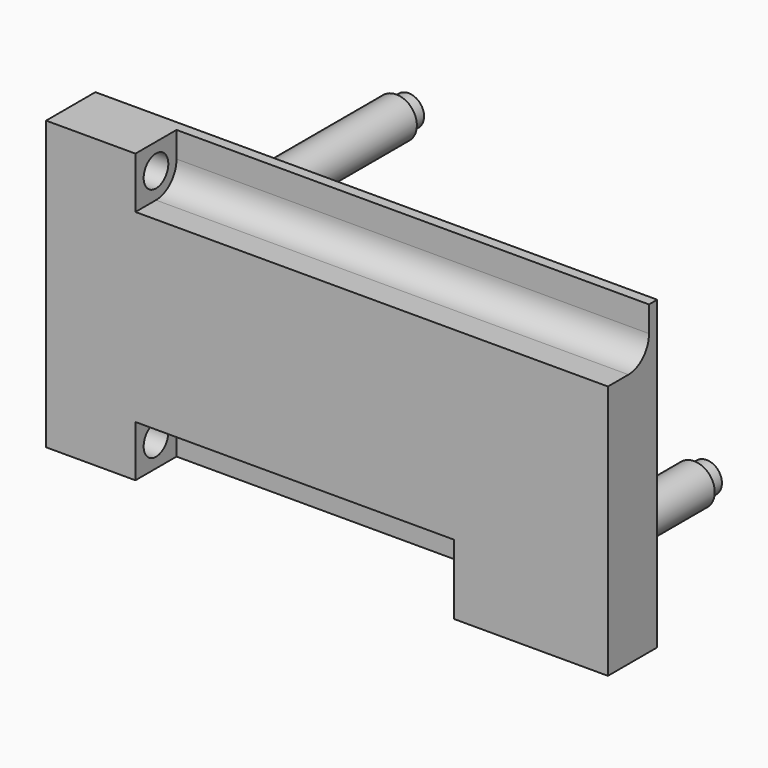
from build123d import *

# Parameters (mm, degrees)
F0_W      = 40
F0_H      = 28
F1_DEPTH  = 6
F3_DEPTH  = 38
F4_R      = 1.5
F5_DEPTH  = 2
F7_R      = 2.225
F7_R_2    = 1.225
F8_DEPTH  = 3
F9_R      = 2
F10_DEPTH = 17
F11_R     = 1.5
F12_DEPTH = 1.5
F13_DEPTH = 6.7
F15_DEPTH = 8
F16_R     = 3
F17_DEPTH = 4.5
F19_DEPTH = 15
F20_R     = 1.3333333333


with BuildPart() as f1:
    # F0 (on Front) → F1 (new body)
    with BuildSketch(Plane.XZ):
        with Locations((20, -14)):
            Rectangle(F0_W, F0_H)
    extrude(amount=F1_DEPTH)

    # F2 (on face) → F3 (cut, through all)
    with BuildSketch(Plane.YZ.offset(40)):
        with BuildLine():
            Line((-6, -23), (-6, -28))
            Line((-6, -28), (-1, -28))
            Line((-1, -28), (-1, -25.5))
            ThreePointArc((-1, -25.5), (-1.732233047, -23.732233047), (-3.5, -23))
            Line((-3.5, -23), (-6, -23))
        make_face()
        with BuildLine():
            Line((-6, 0), (-6, -5))
            Line((-6, -5), (-3.5, -5))
            ThreePointArc((-3.5, -5), (-1.732233047, -4.267766953), (-1, -2.5))
            Line((-1, -2.5), (-1, 0))
            Line((-1, 0), (-6, 0))
        make_face()
    extrude(amount=-F3_DEPTH, mode=Mode.SUBTRACT)

    # F4 (on face) → F5 (cut)
    with BuildSketch(Plane(origin=(0, 0, 0), x_dir=(0, -1, 0), z_dir=(-1, 0, 0))):
        with Locations((3.5, -25.5)):
            Circle(F4_R)
        with BuildLine():
            ThreePointArc((0, -22.94427191), (4, -14), (0, -5.05572809))
            Line((0, -5.05572809), (0, -22.94427191))
        make_face()
        with Locations((3.5, -2.5)):
            Circle(F4_R)
    extrude(amount=-F5_DEPTH, mode=Mode.SUBTRACT)

    # F7 (on face) → F8 (join)
    with BuildSketch(Plane(origin=(0, 0, 0), x_dir=(-1, 0, 0), z_dir=(0, 1, 0))):
        with Locations((-20.5, -24)):
            Circle(F7_R)
        with Locations((-20.5, -24)):
            Circle(F7_R_2, mode=Mode.SUBTRACT)
        with Locations((-30.4902837155, -23.5592832158)):
            Circle(F7_R)
        with Locations((-30.4902837155, -23.5592832158)):
            Circle(F7_R_2, mode=Mode.SUBTRACT)
    extrude(amount=F8_DEPTH)

    # F9 (on face) → F10 (join)
    with BuildSketch(Plane(origin=(0, 0, 0), x_dir=(-1, 0, 0), z_dir=(0, 1, 0))):
        with Locations((-38, -26)):
            Circle(F9_R)
        with Locations((-9, -24)):
            Circle(F9_R)
        with Locations((-9, -4)):
            Circle(F9_R)
    extrude(amount=F10_DEPTH)

    # F11 (on face) → F12 (join)
    with BuildSketch(Plane(origin=(0, 17, 0), x_dir=(-1, 0, 0), z_dir=(0, 1, 0))):
        with Locations((-38, -26)):
            Circle(F11_R)
        with Locations((-9, -24)):
            Circle(F11_R)
        with Locations((-9, -4)):
            Circle(F11_R)
    extrude(amount=F12_DEPTH)

    # F13 (add): a face of the model
    f13_faces = [f1.faces().sort_by_distance(p)[0] for p in [
        (0, -0.2863564213, -2.527864045),
    ]]
    extrude(f13_faces, amount=F13_DEPTH)

    # F14 (on face) → F15 (join)
    with BuildSketch(Plane.YZ.offset(40)):
        with BuildLine():
            Line((0, 0), (-1, 0))
            Line((-1, 0), (-1, -2.5))
            ThreePointArc((-1, -2.5), (-1.732233047, -4.267766953), (-3.5, -5))
            Line((-3.5, -5), (-6, -5))
            Line((-6, -5), (-6, -23))
            Line((-6, -23), (-3.5, -23))
            ThreePointArc((-3.5, -23), (-1.732233047, -23.732233047), (-1, -25.5))
            Line((-1, -25.5), (-1, -28))
            Line((-1, -28), (0, -28))
            Line((0, -28), (0, 0))
        make_face()
    extrude(amount=F15_DEPTH)

    # F16 (on face) → F17 (cut)
    with BuildSketch(Plane(origin=(0, 0, 0), x_dir=(-1, 0, 0), z_dir=(0, 1, 0))):
        with Locations((-38, -10)):
            Circle(F16_R)
    extrude(amount=-F17_DEPTH, mode=Mode.SUBTRACT)

    # F18 (on face) → F19 (join)
    with BuildSketch(Plane.YZ.offset(48)):
        with BuildLine():
            Line((-3.5, -23), (-6, -23))
            Line((-6, -23), (-6, -29.8))
            Line((-6, -29.8), (0, -29.8))
            Line((0, -29.8), (0, -28))
            Line((0, -28), (-1, -28))
            Line((-1, -28), (-1, -25.5))
            ThreePointArc((-1, -25.5), (-1.732233047, -23.732233047), (-3.5, -23))
        make_face()
    extrude(amount=-F19_DEPTH)

    # F20
    f20_edges = [f1.edges().sort_by_distance(p)[0] for p in [
        (40, 0, -26),
        (11, 0, -24),
        (11, 0, -4),
    ]]
    fillet(f20_edges, radius=F20_R)


solid = f1.part
